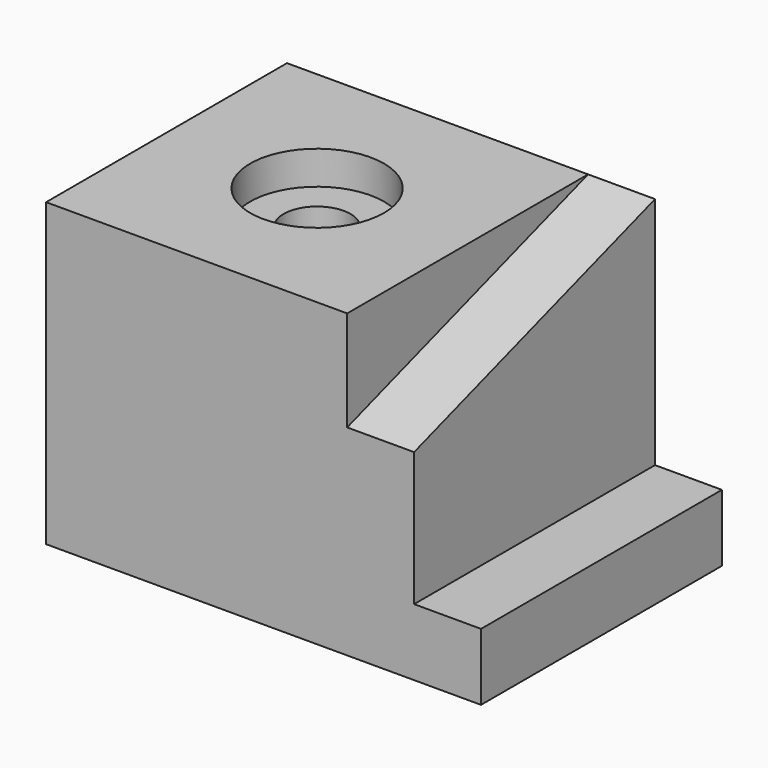
from build123d import *

# Parameters (mm, degrees)
F1_DEPTH       = 45
F3_DEPTH       = 10
F5_D           = 10
F5_CBORE_D     = 20
F5_CBORE_DEPTH = 5


with BuildPart() as f1:
    # F0 (on Front) → F1 (new body)
    with BuildSketch(Plane.XZ):
        Polygon((0, 45), (0, 0), (65, 0), (65, 10), (55, 10), (55, 45), align=None)
    extrude(amount=F1_DEPTH)

    # F2 (on face) → F3 (cut)
    with BuildSketch(Plane.YZ.offset(55)):
        Polygon((-45, 30), (0, 45), (-45, 45), align=None)
    extrude(amount=-F3_DEPTH, mode=Mode.SUBTRACT)

    # F5 (through all)
    with Locations(Plane.XY.offset(45)):
        with Locations((22.5, -22.5)):
            CounterBoreHole(F5_D / 2, F5_CBORE_D / 2, F5_CBORE_DEPTH)


solid = f1.part
